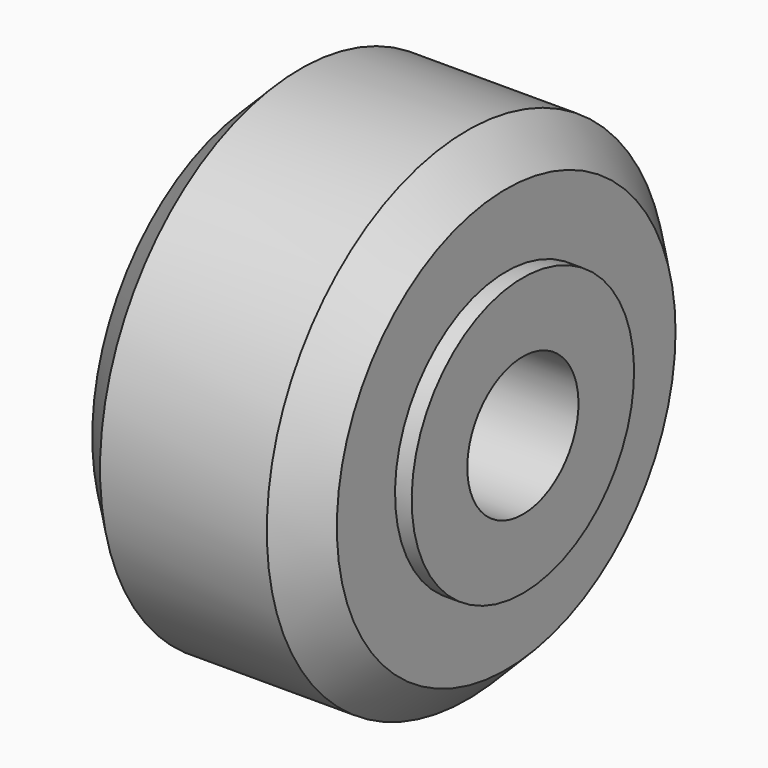
from build123d import *

# Parameters (mm, degrees)
CYLINDER003_R     = 2.5
CYLINDER003_DEPTH = 10
CYLINDER_R        = 5
CYLINDER_DEPTH    = 10
CYLINDER002_R     = 2.5
CYLINDER002_DEPTH = 10


with BuildPart() as cylinder003:
    # Cylinder003 → Cylinder003 (new body)
    with BuildSketch(Plane(origin=(-5, 0, 0), x_dir=(0, 0, -1), z_dir=(1, 0, 0))):
        Circle(CYLINDER003_R)
    extrude(amount=CYLINDER003_DEPTH)


with BuildPart() as cut001:
    # Cylinder → Cylinder (new body)
    with BuildSketch(Plane(origin=(-5, 0, 0), x_dir=(0, 0, -1), z_dir=(1, 0, 0))):
        Circle(CYLINDER_R)
    extrude(amount=CYLINDER_DEPTH)

    # Cut001: cut Cylinder003
    add(cylinder003.part, mode=Mode.SUBTRACT)


with BuildPart() as cylinder002:
    # Cylinder002 → Cylinder002 (new body)
    with BuildSketch(Plane(origin=(-5, 0, 0), x_dir=(0, 0, -1), z_dir=(1, 0, 0))):
        Circle(CYLINDER002_R)
    extrude(amount=CYLINDER002_DEPTH)


with BuildPart() as fusion:
    # Sketch → Revolve (revolve)
    with BuildSketch(Plane.XY):
        Polygon((-4.4, 0), (-4.4, 7.615), (-3, 9.015), (3, 9.015), (4.4, 7.615), (4.4, 0), (0, 0), align=None)
    revolve(axis=Axis((0, 0, 0), (1, 0, 0)))

    # Cut: cut Cylinder002
    add(cylinder002.part, mode=Mode.SUBTRACT)

    # Fusion: union Cut001
    add(cut001.part)


solid = fusion.part
